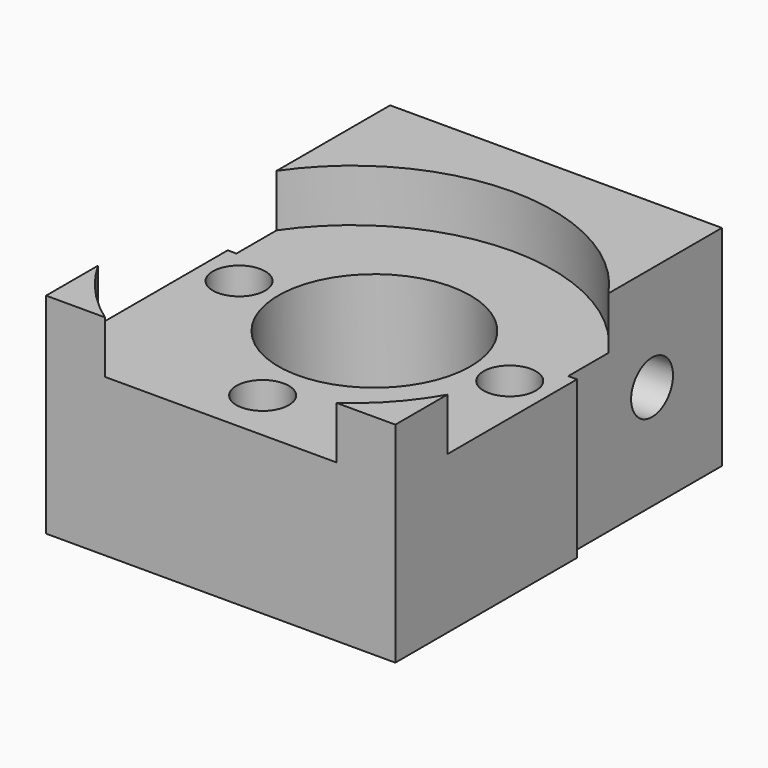
from build123d import *

# Parameters (mm, degrees)
F0_R     = 5.5
F1_DEPTH = 12
F2_R     = 1.5
F3_DEPTH = 12
F5_DEPTH = 22
F6_R     = 11.5
F7_DEPTH = 3


with BuildPart() as f1:
    # F0 (on Top) → F1 (new body)
    with BuildSketch(Plane.XY):
        Polygon((9.5, 2), (9.5, 13), (-9.5, 13), (-9.5, 2), (-10, 2), (-10, -11), (10, -11), (10, 2), align=None)
        Circle(F0_R, mode=Mode.SUBTRACT)
    extrude(amount=F1_DEPTH)

    # F2 (on face) → F3 (cut)
    with BuildSketch(Plane.XY.offset(12)):
        with Locations((7.75, 0)):
            Circle(F2_R)
        with Locations((-7.75, 0)):
            Circle(F2_R)
        with Locations((0, -8)):
            Circle(F2_R)
    extrude(amount=-F3_DEPTH, mode=Mode.SUBTRACT)

    # F4 (on face) → F5 (cut)
    with BuildSketch(Plane.YZ.offset(9.5)):
        with BuildLine():
            ThreePointArc((9.5, 6), (8, 7.5), (6.5, 6))
            ThreePointArc((6.5, 6), (8, 4.5), (9.5, 6))
        make_face()
    extrude(amount=-F5_DEPTH, mode=Mode.SUBTRACT)

    # F6 (on face) → F7 (cut)
    with BuildSketch(Plane.XY.offset(12)):
        with Locations((0, -1.604815)):
            Circle(F6_R)
    extrude(amount=-F7_DEPTH, mode=Mode.SUBTRACT)


solid = f1.part
